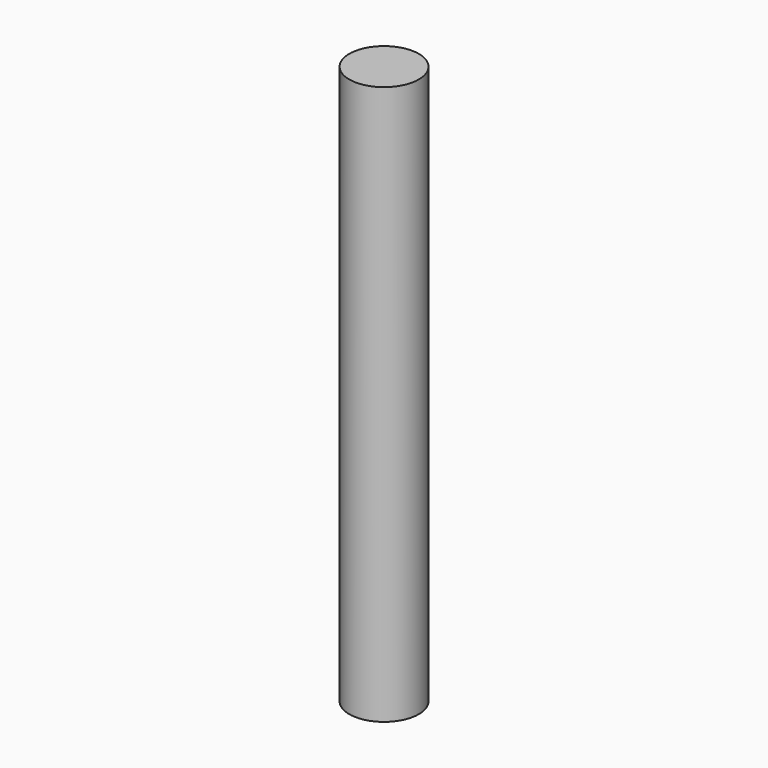
from build123d import *

# Parameters (mm, degrees)
F0_R     = 3.175
F1_DEPTH = 57.15
F2_DEPTH = 2.54
F3_DEPTH = 3.81
F4_DEPTH = 2.286


with BuildPart() as f1:
    # F0 (on Top) → F1 (new body)
    with BuildSketch(Plane.XY):
        Circle(F0_R)
    extrude(amount=F1_DEPTH)

    # F2 (add): a face of the model
    f2_faces = [f1.faces().sort_by_distance(p)[0] for p in [
        (0, 0, 57.15),
    ]]
    extrude(f2_faces, amount=-F2_DEPTH)

    # F3 (cut): a face of the model
    f3_faces = [f1.faces().sort_by_distance(p)[0] for p in [
        (0, 0, 57.15),
    ]]
    extrude(f3_faces, amount=-F3_DEPTH, mode=Mode.SUBTRACT)

    # F4 (cut): a face of the model
    f4_faces = [f1.faces().sort_by_distance(p)[0] for p in [
        (0, 0, 53.34),
    ]]
    extrude(f4_faces, amount=-F4_DEPTH, mode=Mode.SUBTRACT)


solid = f1.part
